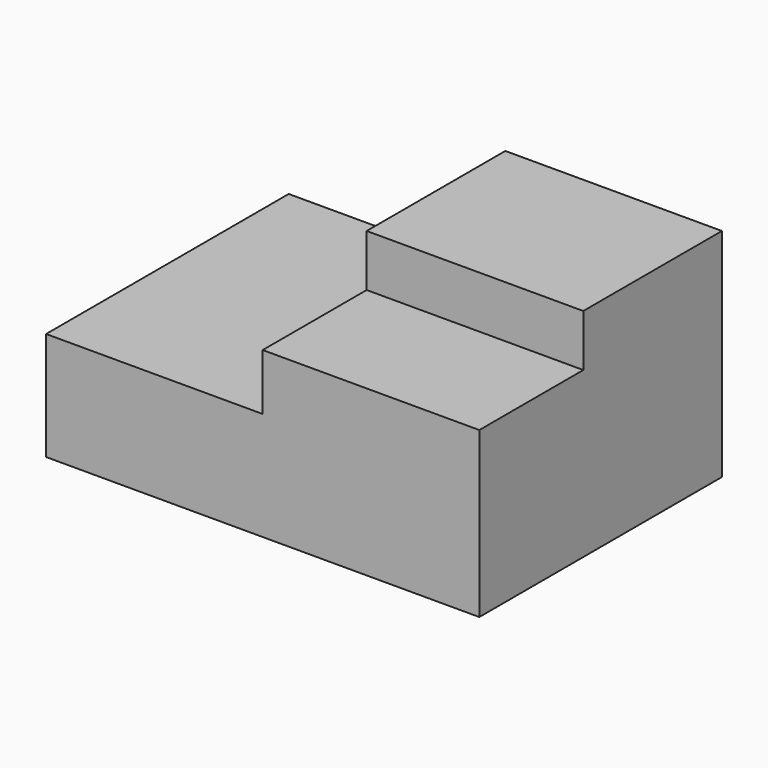
from build123d import *

# Parameters (mm, degrees)
F1_DEPTH = 70
F0_W     = 50
F0_H     = 12
F2_DEPTH = 40


with BuildPart() as f1:
    # F0 (on Front) → F1 (new body)
    with BuildSketch(Plane.XZ):
        Polygon((-51.428571, 25), (-51.428571, 0), (48.571429, 0), (48.571429, 38), (-1.428571, 38), (-1.428571, 25), align=None)
    extrude(amount=F1_DEPTH)

    # F0 (on Front) → F2 (join)
    with BuildSketch(Plane.XZ):
        Polygon((-51.428571, 25), (-51.428571, 0), (48.571429, 0), (48.571429, 38), (-1.428571, 38), (-1.428571, 25), align=None)
        with Locations((23.571429, 44)):
            Rectangle(F0_W, F0_H)
    extrude(amount=F2_DEPTH)


solid = f1.part
